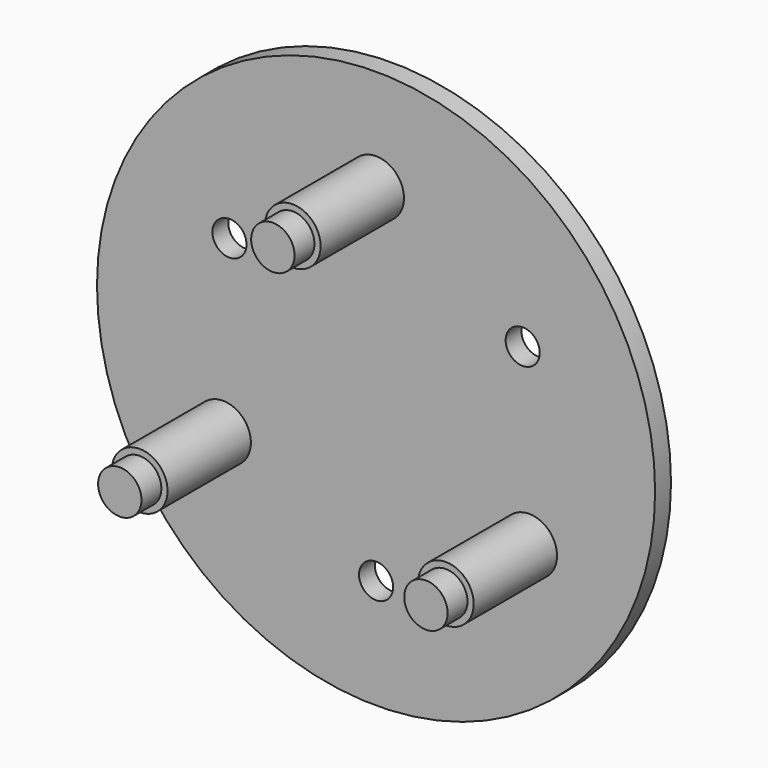
from build123d import *

# Parameters (mm, degrees)
F0_R     = 22.5
F1_DEPTH = 1.6
F4_D     = 2.75
F2_R     = 2.25
F5_DEPTH = 10
F6_R     = 1.75
F7_R     = 1.75
F8_R     = 1.75
F9_DEPTH = 2


with BuildPart() as f1:
    # F0 (on Front) → F1 (new body)
    with BuildSketch(Plane.XZ):
        Circle(F0_R)
    extrude(amount=F1_DEPTH)

    # F4 (through all)
    with Locations(Plane(origin=(0, 0, 0), x_dir=(-1, 0, 0), z_dir=(0, 1, 0))):
        with Locations((11.821247, 6.825), (0, -13.65), (-11.821247, 6.825)):
            Hole(F4_D / 2)

    # F2 (on face) → F5 (join)
    with BuildSketch(Plane(origin=(0, 0, 0), x_dir=(-1, 0, 0), z_dir=(0, 1, 0))):
        with Locations((0, 14.25)):
            Circle(F2_R)
        with Locations((-12.340862, -7.125)):
            Circle(F2_R)
        with Locations((12.340862, -7.125)):
            Circle(F2_R)
    extrude(amount=-F5_DEPTH)

    # F6 (on face) + F7 (on face) + F8 (on face) → F9 (join)
    with BuildSketch(Plane.XZ.offset(10)):
        with Locations((0, 14.25)):
            Circle(F6_R)
    with BuildSketch(Plane.XZ.offset(10)):
        with Locations((-12.340862, -7.125)):
            Circle(F7_R)
    with BuildSketch(Plane.XZ.offset(10)):
        with Locations((12.340862, -7.125)):
            Circle(F8_R)
    extrude(amount=F9_DEPTH)


solid = f1.part
